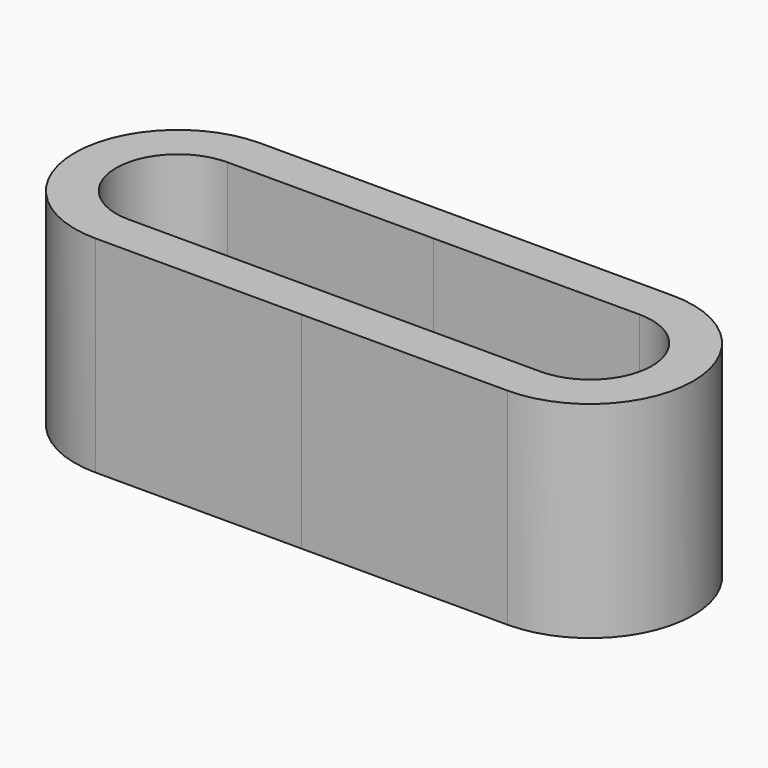
from build123d import *

# Parameters (mm, degrees)
F1_DEPTH = 50


with BuildPart() as f1:
    # F0 (on Top) → F1 (new body)
    with BuildSketch(Plane.XY):
        with BuildLine():
            Line((49.999999, 25), (0, 25))
            ThreePointArc((0, 25), (-25, 0), (0, -25))
            Line((0, -25), (50.000001, -25))
            Line((50.000001, -25), (100.000003, -24.999995))
            ThreePointArc((100.000003, -24.999995), (125, 8e-06), (99.999997, 25.000005))
            Line((99.999997, 25.000005), (49.999999, 25))
        make_face()
        with BuildLine():
            ThreePointArc((0, -15), (-15, 0), (0, 15))
            Line((0, 15), (49.999999, 15))
            Line((49.999999, 15), (99.999998, 15.000005))
            ThreePointArc((99.999998, 15.000005), (115, 7e-06), (100.000002, -14.999995))
            Line((100.000002, -14.999995), (50.000001, -15))
            Line((50.000001, -15), (0, -15))
        make_face(mode=Mode.SUBTRACT)
    extrude(amount=F1_DEPTH)


solid = f1.part
